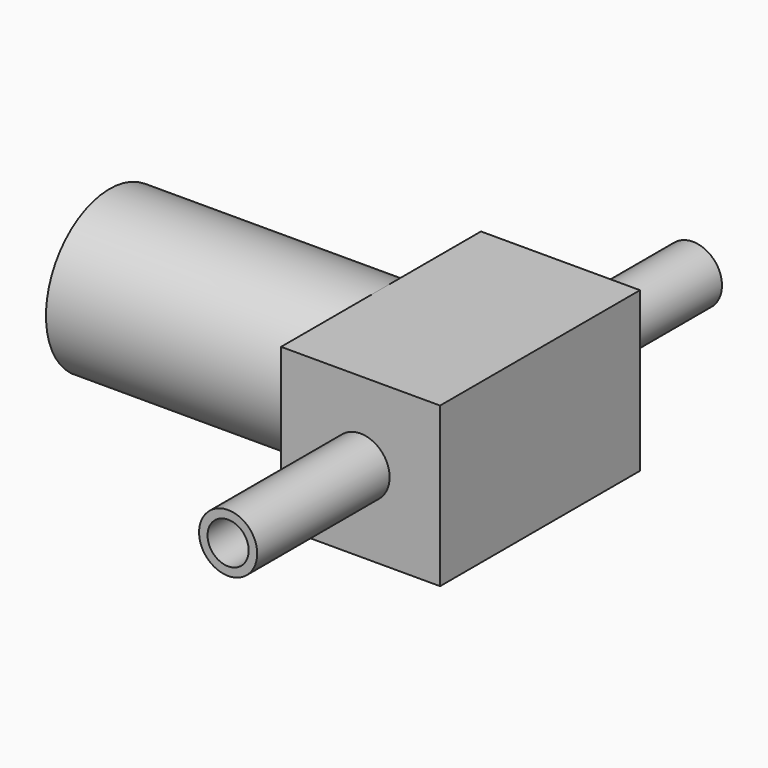
from build123d import *

# Parameters (mm, degrees)
F0_W      = 73
F0_H      = 73
F1_DEPTH  = 133.35
F2_R      = 36.5
F3_DEPTH  = 161.1
F4_R      = 27
F5_DEPTH  = 173.525
F6_R      = 9.45
F7_DEPTH  = 336
F8_R      = 57.112961
F8_R_2    = 13.335
F9_DEPTH  = 76
F10_R     = 82.497851
F10_R_2   = 13.335
F11_DEPTH = 76


with BuildPart() as f1:
    # F0 (on Front) → F1 (new body, symmetric)
    with BuildSketch(Plane.XZ):
        Rectangle(F0_W, F0_H)
    extrude(amount=F1_DEPTH, both=True)

    # F2 (on Right) → F3 (join)
    with BuildSketch(Plane.YZ):
        Circle(F2_R)
    extrude(amount=-F3_DEPTH)

    # F4 (on face) → F5 (cut)
    with BuildSketch(Plane(origin=(-161.1, 0, 0), x_dir=(0, -1, 0), z_dir=(-1, 0, 0))):
        Circle(F4_R)
    extrude(amount=-F5_DEPTH, mode=Mode.SUBTRACT)

    # F6 (on face) → F7 (cut)
    with BuildSketch(Plane.XZ.offset(133.35)):
        Circle(F6_R)
    extrude(amount=-F7_DEPTH, mode=Mode.SUBTRACT)

    # F8 (on face) → F9 (cut)
    with BuildSketch(Plane(origin=(0, 133.35, 0), x_dir=(-1, 0, 0), z_dir=(0, 1, 0))):
        Circle(F8_R)
        Circle(F8_R_2, mode=Mode.SUBTRACT)
    extrude(amount=-F9_DEPTH, mode=Mode.SUBTRACT)

    # F10 (on face) → F11 (cut)
    with BuildSketch(Plane.XZ.offset(133.35)):
        Circle(F10_R)
        Circle(F10_R_2, mode=Mode.SUBTRACT)
    extrude(amount=-F11_DEPTH, mode=Mode.SUBTRACT)


solid = f1.part
